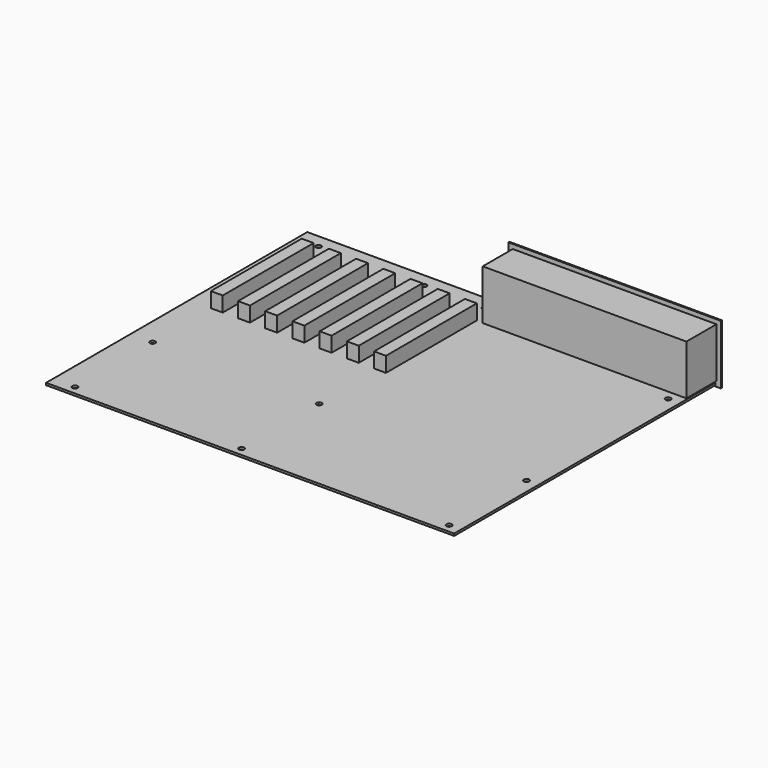
from build123d import *

# Parameters (mm, degrees)
F0_W     = 304.8
F0_H     = 243.84
F0_R     = 2
F1_DEPTH = 1.6
F2_W     = 8.89
F2_H     = 84.84
F3_DEPTH = 11.25
F4_W     = 152.146
F4_H     = 28
F5_DEPTH = 37.338
F6_W     = 158.75
F6_H     = 44.45
F7_DEPTH = 1


with BuildPart() as f1:
    # F0 (on Top) → F1 (new body)
    with BuildSketch(Plane.XY):
        with Locations((152.4, 121.92)):
            Rectangle(F0_W, F0_H)
        with Locations((16.51, 6.35)):
            Circle(F0_R, mode=Mode.SUBTRACT)
        with Locations((140.97, 6.35)):
            Circle(F0_R, mode=Mode.SUBTRACT)
        with Locations((16.51, 78.74)):
            Circle(F0_R, mode=Mode.SUBTRACT)
        with Locations((140.97, 78.74)):
            Circle(F0_R, mode=Mode.SUBTRACT)
        with Locations((295.91, 6.35)):
            Circle(F0_R, mode=Mode.SUBTRACT)
        with Locations((295.91, 78.74)):
            Circle(F0_R, mode=Mode.SUBTRACT)
        with Locations((16.51, 233.68)):
            Circle(F0_R, mode=Mode.SUBTRACT)
        with Locations((95.25, 233.68)):
            Circle(F0_R, mode=Mode.SUBTRACT)
        with Locations((140.97, 233.68)):
            Circle(F0_R, mode=Mode.SUBTRACT)
        with Locations((295.91, 210.82)):
            Circle(F0_R, mode=Mode.SUBTRACT)
    extrude(amount=F1_DEPTH)

    # F2 (on face) → F3 (join)
    with BuildSketch(Plane.XY.offset(1.6)):
        with Locations((122.2248, 176.02)):
            Rectangle(F2_W, F2_H)
        with Locations((142.5448, 176.02)):
            Rectangle(F2_W, F2_H)
        with Locations((81.5848, 176.02)):
            Rectangle(F2_W, F2_H)
        with Locations((101.9048, 176.02)):
            Rectangle(F2_W, F2_H)
        with Locations((40.9448, 176.02)):
            Rectangle(F2_W, F2_H)
        with Locations((61.2648, 176.02)):
            Rectangle(F2_W, F2_H)
        with Locations((20.6248, 176.02)):
            Rectangle(F2_W, F2_H)
    extrude(amount=F3_DEPTH)

    # F4 (on face) → F5 (join)
    with BuildSketch(Plane.XY.offset(1.6)):
        with Locations((227.8634, 231.9482)):
            Rectangle(F4_W, F4_H)
    extrude(amount=F5_DEPTH)

    # F6 (on face) → F7 (join)
    with BuildSketch(Plane(origin=(0, 245.9482, 0), x_dir=(-1, 0, 0), z_dir=(0, 1, 0))):
        with Locations((-227.8634, 20.015)):
            Rectangle(F6_W, F6_H)
    extrude(amount=F7_DEPTH)


solid = f1.part
